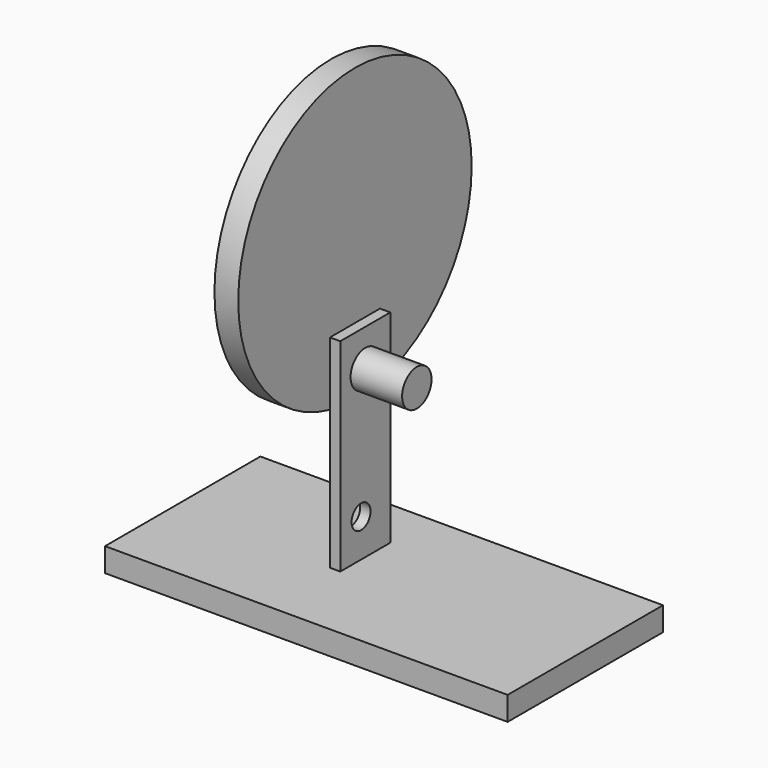
from build123d import *

# Parameters (mm, degrees)
F0_W      = 107.4284315109
F0_H      = 51.8054459244
F1_DEPTH  = 6.35
F2_W      = 2.7584051713
F2_H      = 16.6592616588
F3_DEPTH  = 54.102
F4_R      = 4.9057005628
F5_DEPTH  = 45.4490629414
F6_R      = 38.9203036593
F7_DEPTH  = 6.35
F8_DEPTH  = 16.51
F9_R      = 3.1625742778
F10_DEPTH = 45.4490629414


with BuildPart() as f1:
    # F0 (on Top) → F1 (new body)
    with BuildSketch(Plane.XY):
        with Locations((1.9887797534, 4.2384741828)):
            Rectangle(F0_W, F0_H)
    extrude(amount=F1_DEPTH)

    # F2 (on face) → F3 (join)
    with BuildSketch(Plane.XY.offset(6.35)):
        with Locations((-7.6565756463, 8.3296308294)):
            Rectangle(F2_W, F2_H)
    extrude(amount=F3_DEPTH)

    # F4 (on face) → F5 (cut, through all)
    with BuildSketch(Plane.YZ.offset(-6.2773730606)):
        with Locations((8.3296308294, 50.6100766361)):
            Circle(F4_R)
    extrude(amount=-F5_DEPTH, mode=Mode.SUBTRACT)

    # F6 (on face) → F7 (join)
    with BuildSketch(Plane(origin=(-9.0357782319, 0, 0), x_dir=(0, -1, 0), z_dir=(-1, 0, 0))):
        with Locations((-8.3296308294, 81.4679414034)):
            Circle(F6_R)
    extrude(amount=F7_DEPTH)

    # F8 (add): a face of the model
    f8_faces = [f1.faces().sort_by_distance(p)[0] for p in [
        (-9.0357782319, 8.3296308294, 50.6100766361),
    ]]
    extrude(f8_faces, amount=F8_DEPTH)

    # F9 (on face) → F10 (cut, through all)
    with BuildSketch(Plane.YZ.offset(-6.2773730606)):
        with Locations((6.9233309478, 16.4294000715)):
            Circle(F9_R)
    extrude(amount=-F10_DEPTH, mode=Mode.SUBTRACT)


solid = f1.part
